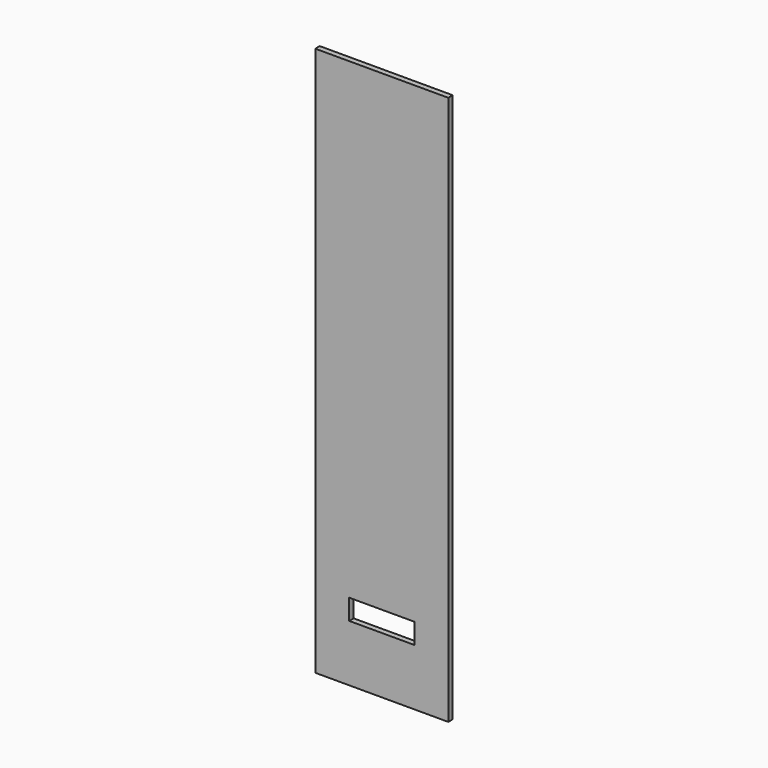
from build123d import *

# Parameters (mm, degrees)
F0_W      = 454.152
F0_H      = 1930.4
F1_DEPTH  = 19.05
F1_FACE_W = 454.152
F1_FACE_H = 19.05
F2_DEPTH  = 53.975
F4_DEPTH  = 25.4


with BuildPart() as f1:
    # F0 (on Front) → F1 (new body)
    with BuildSketch(Plane.XZ):
        Rectangle(F0_W, F0_H)
    extrude(amount=F1_DEPTH)

    # F1_face (on face) → F2 (cut)
    with BuildSketch(Plane(origin=(0, -9.525, -965.2), x_dir=(1, 0, 0), z_dir=(0, 0, -1))):
        Rectangle(F1_FACE_W, F1_FACE_H)
    extrude(amount=-F2_DEPTH, mode=Mode.SUBTRACT)

    # F3 (on face) → F4 (cut)
    with BuildSketch(Plane.XZ.offset(19.05)):
        Polygon((-111.125, -717.55), (0, -717.55), (111.125, -717.55), (111.125, -647.7), (-111.125, -647.7), align=None)
    extrude(amount=-F4_DEPTH, mode=Mode.SUBTRACT)


solid = f1.part
